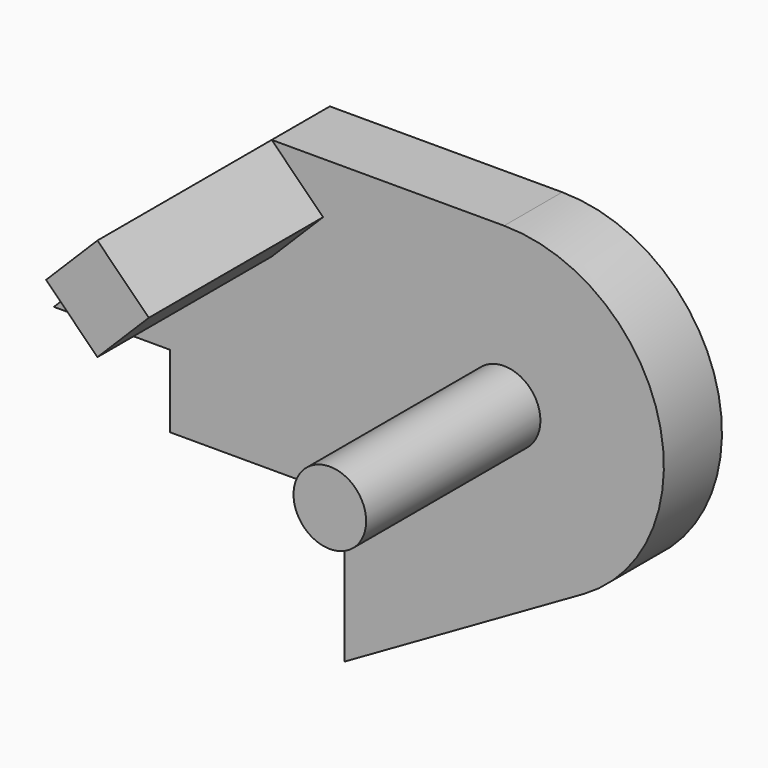
from build123d import *

# Parameters (mm, degrees)
F0_R     = 3.175
F1_DEPTH = 6.35
F2_R     = 3.175
F3_DEPTH = 25.4
F5_DEPTH = 25.4


with BuildPart() as f1:
    # F0 (on Front) → F1 (new body)
    with BuildSketch(Plane.XZ):
        with BuildLine():
            Line((-15.24, 0), (0, 0))
            Line((0, 0), (0, -12.7))
            Line((0, -12.7), (20.926017, -0.685062))
            ThreePointArc((20.926017, -0.685062), (27.468302, 15.029547), (13.97, 25.4))
            Line((13.97, 25.4), (-6.35, 25.4))
            Line((-6.35, 25.4), (-1.859872, 20.909872))
            Line((-1.859872, 20.909872), (-6.35, 16.419744))
            Line((-6.35, 16.419744), (-10.840128, 20.909872))
            Line((-10.840128, 20.909872), (-25.4, 6.35))
            Line((-25.4, 6.35), (-15.24, 6.35))
            Line((-15.24, 6.35), (-15.24, 0))
        make_face()
        with Locations((13.97, 11.43)):
            Circle(F0_R, mode=Mode.SUBTRACT)
    extrude(amount=F1_DEPTH)


with BuildPart() as f3:
    # F2 (on Front) → F3 (new body)
    with BuildSketch(Plane.XZ):
        with Locations((13.97, 11.43)):
            Circle(F2_R)
    extrude(amount=F3_DEPTH)


with BuildPart() as f5:
    # F4 (on Front) → F5 (new body)
    with BuildSketch(Plane.XZ):
        Polygon((-10.840128, 20.909872), (-6.35, 16.419744), (-1.859872, 20.909872), (-6.35, 25.4), align=None)
    extrude(amount=F5_DEPTH)


solid = Compound([f1.part, f3.part, f5.part])
